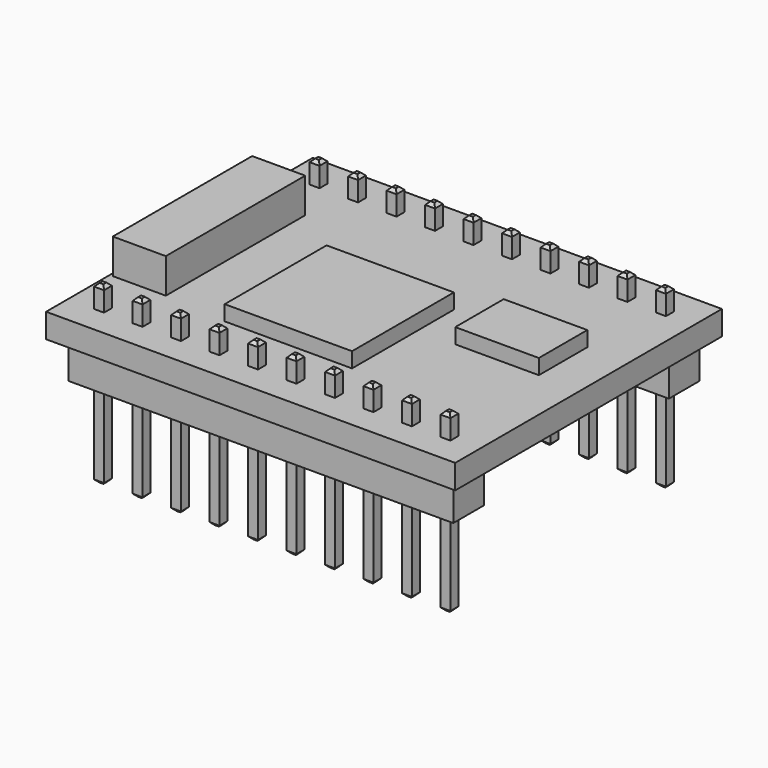
from build123d import *

# Parameters (mm, degrees)
F0_W      = 27
F0_H      = 22
F1_DEPTH  = 1.6
F2_W      = 25.4
F2_H      = 2.54
F3_DEPTH  = 2.5
F4_W      = 0.65
F4_H      = 0.65
F5_DEPTH  = 6
F6_W      = 0.65
F6_H      = 0.65
F7_DEPTH  = 1.5
F8_SIZE   = 0.2
F9_W      = 3.5
F9_H      = 11.5
F10_DEPTH = 2.3
F11_W     = 8.403437
F11_H     = 8.403437
F11_W_2   = 5.517729
F11_H_2   = 3.995596
F12_DEPTH = 1


with BuildPart() as f1:
    # F0 (on Top) → F1 (new body)
    with BuildSketch(Plane.XY):
        Rectangle(F0_W, F0_H)
    extrude(amount=F1_DEPTH)

    # F2 (on face) → F3 (join)
    with BuildSketch(Plane(origin=(0, 0, 0), x_dir=(1, 0, 0), z_dir=(0, 0, -1))):
        with Locations((0, 8.89)):
            Rectangle(F2_W, F2_H)
        with Locations((0, -8.89)):
            Rectangle(F2_W, F2_H)
    extrude(amount=F3_DEPTH)

    # F4 (on face) → F5 (join)
    with BuildSketch(Plane(origin=(0, 0, -2.5), x_dir=(1, 0, 0), z_dir=(0, 0, -1))):
        with Locations((-11.43, 8.89)):
            Rectangle(F4_W, F4_H)
        with Locations((-8.89, 8.89)):
            Rectangle(F4_W, F4_H)
        with Locations((-6.35, 8.89)):
            Rectangle(F4_W, F4_H)
        with Locations((-3.81, 8.89)):
            Rectangle(F4_W, F4_H)
        with Locations((-1.27, 8.89)):
            Rectangle(F4_W, F4_H)
        with Locations((1.27, 8.89)):
            Rectangle(F4_W, F4_H)
        with Locations((3.81, 8.89)):
            Rectangle(F4_W, F4_H)
        with Locations((6.35, 8.89)):
            Rectangle(F4_W, F4_H)
        with Locations((8.89, 8.89)):
            Rectangle(F4_W, F4_H)
        with Locations((11.43, 8.89)):
            Rectangle(F4_W, F4_H)
        with Locations((6.35, -8.89)):
            Rectangle(F4_W, F4_H)
        with Locations((3.81, -8.89)):
            Rectangle(F4_W, F4_H)
        with Locations((-1.27, -8.89)):
            Rectangle(F4_W, F4_H)
        with Locations((-6.35, -8.89)):
            Rectangle(F4_W, F4_H)
        with Locations((11.43, -8.89)):
            Rectangle(F4_W, F4_H)
        with Locations((-3.81, -8.89)):
            Rectangle(F4_W, F4_H)
        with Locations((8.89, -8.89)):
            Rectangle(F4_W, F4_H)
        with Locations((1.27, -8.89)):
            Rectangle(F4_W, F4_H)
        with Locations((-8.89, -8.89)):
            Rectangle(F4_W, F4_H)
        with Locations((-11.43, -8.89)):
            Rectangle(F4_W, F4_H)
    extrude(amount=F5_DEPTH)

    # F6 (on face) → F7 (join)
    with BuildSketch(Plane.XY.offset(1.6)):
        with Locations((-11.43, 8.89)):
            Rectangle(F6_W, F6_H)
        with Locations((-8.89, 8.89)):
            Rectangle(F6_W, F6_H)
        with Locations((-6.35, 8.89)):
            Rectangle(F6_W, F6_H)
        with Locations((-3.81, 8.89)):
            Rectangle(F6_W, F6_H)
        with Locations((-1.27, 8.89)):
            Rectangle(F6_W, F6_H)
        with Locations((1.27, 8.89)):
            Rectangle(F6_W, F6_H)
        with Locations((3.81, 8.89)):
            Rectangle(F6_W, F6_H)
        with Locations((6.35, 8.89)):
            Rectangle(F6_W, F6_H)
        with Locations((8.89, 8.89)):
            Rectangle(F6_W, F6_H)
        with Locations((11.43, 8.89)):
            Rectangle(F6_W, F6_H)
        with Locations((-11.43, -8.89)):
            Rectangle(F6_W, F6_H)
        with Locations((-8.89, -8.89)):
            Rectangle(F6_W, F6_H)
        with Locations((-6.35, -8.89)):
            Rectangle(F6_W, F6_H)
        with Locations((-3.81, -8.89)):
            Rectangle(F6_W, F6_H)
        with Locations((-1.27, -8.89)):
            Rectangle(F6_W, F6_H)
        with Locations((1.27, -8.89)):
            Rectangle(F6_W, F6_H)
        with Locations((3.81, -8.89)):
            Rectangle(F6_W, F6_H)
        with Locations((6.35, -8.89)):
            Rectangle(F6_W, F6_H)
        with Locations((8.89, -8.89)):
            Rectangle(F6_W, F6_H)
        with Locations((11.43, -8.89)):
            Rectangle(F6_W, F6_H)
    extrude(amount=F7_DEPTH)

    # F8
    f8_edges = [f1.edges().sort_by_distance(p)[0] for p in [
        (-11.43, -9.215, -8.5),
        (-11.755, -8.89, -8.5),
        (-11.43, -8.565, -8.5),
        (-11.105, -8.89, -8.5),
        (-8.565, -8.89, -8.5),
        (-8.89, -9.215, -8.5),
        (-9.215, -8.89, -8.5),
        (-8.89, -8.565, -8.5),
        (-6.025, -8.89, -8.5),
        (-6.35, -9.215, -8.5),
        (-6.675, -8.89, -8.5),
        (-6.35, -8.565, -8.5),
        (-3.485, -8.89, -8.5),
        (-3.81, -9.215, -8.5),
        (-4.135, -8.89, -8.5),
        (-3.81, -8.565, -8.5),
        (-0.945, -8.89, -8.5),
        (-1.27, -9.215, -8.5),
        (-1.595, -8.89, -8.5),
        (-1.27, -8.565, -8.5),
        (1.595, -8.89, -8.5),
        (1.27, -9.215, -8.5),
        (0.945, -8.89, -8.5),
        (1.27, -8.565, -8.5),
        (4.135, -8.89, -8.5),
        (3.81, -9.215, -8.5),
        (3.485, -8.89, -8.5),
        (3.81, -8.565, -8.5),
        (6.675, -8.89, -8.5),
        (6.35, -9.215, -8.5),
        (6.025, -8.89, -8.5),
        (6.35, -8.565, -8.5),
        (9.215, -8.89, -8.5),
        (8.89, -9.215, -8.5),
        (8.565, -8.89, -8.5),
        (8.89, -8.565, -8.5),
        (11.755, -8.89, -8.5),
        (11.43, -9.215, -8.5),
        (11.105, -8.89, -8.5),
        (11.43, -8.565, -8.5),
        (-11.43, 8.565, -8.5),
        (-11.755, 8.89, -8.5),
        (-11.43, 9.215, -8.5),
        (-11.105, 8.89, -8.5),
        (-9.215, 8.89, -8.5),
        (-8.89, 9.215, -8.5),
        (-8.565, 8.89, -8.5),
        (-8.89, 8.565, -8.5),
        (-6.675, 8.89, -8.5),
        (-6.35, 9.215, -8.5),
        (-6.025, 8.89, -8.5),
        (-6.35, 8.565, -8.5),
        (-4.135, 8.89, -8.5),
        (-3.81, 9.215, -8.5),
        (-3.485, 8.89, -8.5),
        (-3.81, 8.565, -8.5),
        (-1.27, 9.215, -8.5),
        (-0.945, 8.89, -8.5),
        (-1.27, 8.565, -8.5),
        (-1.595, 8.89, -8.5),
        (0.945, 8.89, -8.5),
        (1.27, 9.215, -8.5),
        (1.595, 8.89, -8.5),
        (1.27, 8.565, -8.5),
        (3.485, 8.89, -8.5),
        (3.81, 9.215, -8.5),
        (4.135, 8.89, -8.5),
        (3.81, 8.565, -8.5),
        (6.35, 8.565, -8.5),
        (6.025, 8.89, -8.5),
        (6.35, 9.215, -8.5),
        (6.675, 8.89, -8.5),
        (8.565, 8.89, -8.5),
        (8.89, 9.215, -8.5),
        (9.215, 8.89, -8.5),
        (8.89, 8.565, -8.5),
        (11.43, 9.215, -8.5),
        (11.755, 8.89, -8.5),
        (11.43, 8.565, -8.5),
        (11.105, 8.89, -8.5),
        (-11.755, 8.89, 3.1),
        (-11.43, 8.565, 3.1),
        (-11.105, 8.89, 3.1),
        (-11.43, 9.215, 3.1),
        (-8.89, 9.215, 3.1),
        (-9.215, 8.89, 3.1),
        (-8.89, 8.565, 3.1),
        (-8.565, 8.89, 3.1),
        (-6.35, 9.215, 3.1),
        (-6.675, 8.89, 3.1),
        (-6.35, 8.565, 3.1),
        (-6.025, 8.89, 3.1),
        (-3.81, 9.215, 3.1),
        (-4.135, 8.89, 3.1),
        (-3.81, 8.565, 3.1),
        (-3.485, 8.89, 3.1),
        (-1.595, 8.89, 3.1),
        (-1.27, 8.565, 3.1),
        (-0.945, 8.89, 3.1),
        (-1.27, 9.215, 3.1),
        (1.27, 9.215, 3.1),
        (0.945, 8.89, 3.1),
        (1.27, 8.565, 3.1),
        (1.595, 8.89, 3.1),
        (3.485, 8.89, 3.1),
        (3.81, 8.565, 3.1),
        (4.135, 8.89, 3.1),
        (3.81, 9.215, 3.1),
        (6.025, 8.89, 3.1),
        (6.35, 8.565, 3.1),
        (6.675, 8.89, 3.1),
        (6.35, 9.215, 3.1),
        (8.89, 9.215, 3.1),
        (8.565, 8.89, 3.1),
        (8.89, 8.565, 3.1),
        (9.215, 8.89, 3.1),
        (11.105, 8.89, 3.1),
        (11.43, 8.565, 3.1),
        (11.755, 8.89, 3.1),
        (11.43, 9.215, 3.1),
        (-11.755, -8.89, 3.1),
        (-11.43, -9.215, 3.1),
        (-11.105, -8.89, 3.1),
        (-11.43, -8.565, 3.1),
        (-8.89, -9.215, 3.1),
        (-8.565, -8.89, 3.1),
        (-8.89, -8.565, 3.1),
        (-9.215, -8.89, 3.1),
        (-6.35, -9.215, 3.1),
        (-6.025, -8.89, 3.1),
        (-6.35, -8.565, 3.1),
        (-6.675, -8.89, 3.1),
        (-3.81, -9.215, 3.1),
        (-3.485, -8.89, 3.1),
        (-3.81, -8.565, 3.1),
        (-4.135, -8.89, 3.1),
        (-1.27, -9.215, 3.1),
        (-0.945, -8.89, 3.1),
        (-1.27, -8.565, 3.1),
        (-1.595, -8.89, 3.1),
        (1.27, -9.215, 3.1),
        (1.595, -8.89, 3.1),
        (1.27, -8.565, 3.1),
        (0.945, -8.89, 3.1),
        (3.81, -9.215, 3.1),
        (4.135, -8.89, 3.1),
        (3.81, -8.565, 3.1),
        (3.485, -8.89, 3.1),
        (6.35, -9.215, 3.1),
        (6.675, -8.89, 3.1),
        (6.35, -8.565, 3.1),
        (6.025, -8.89, 3.1),
        (8.89, -9.215, 3.1),
        (9.215, -8.89, 3.1),
        (8.89, -8.565, 3.1),
        (8.565, -8.89, 3.1),
        (11.43, -9.215, 3.1),
        (11.755, -8.89, 3.1),
        (11.43, -8.565, 3.1),
        (11.105, -8.89, 3.1),
    ]]
    chamfer(f8_edges, length=F8_SIZE)

    # F9 (on face) → F10 (join)
    with BuildSketch(Plane.XY.offset(1.6)):
        with Locations((-11.55, 0)):
            Rectangle(F9_W, F9_H)
    extrude(amount=F10_DEPTH)

    # F11 (on face) → F12 (join)
    with BuildSketch(Plane.XY.offset(1.6)):
        with Locations((-1.438742, -1.888819)):
            Rectangle(F11_W, F11_H)
        with Locations((7.995306, 1.329855)):
            Rectangle(F11_W_2, F11_H_2)
    extrude(amount=F12_DEPTH)


solid = f1.part
